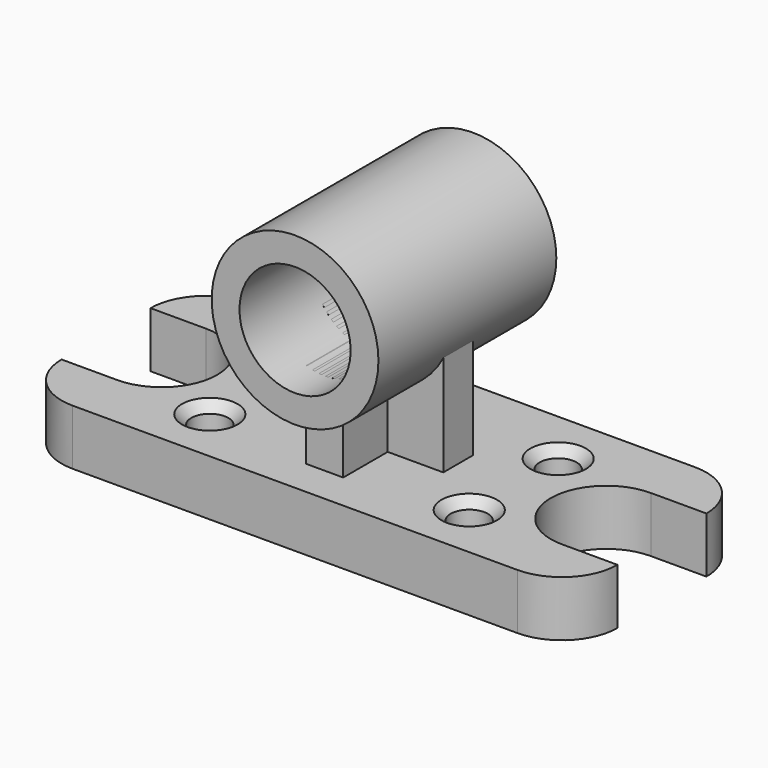
from build123d import *

# Parameters (mm, degrees)
F0_R     = 38.1
F0_R_2   = 25.4
F1_DEPTH = 76.2
F2_SIZE  = 12.7
F5_DEPTH = 152.4
F8_DEPTH = 152.4
F9_D     = 152.4
F9_2_D   = 152.4


with BuildPart() as f1:
    # F0 (on Top) → F1 (new body)
    with BuildSketch(Plane.XY):
        with BuildLine():
            ThreePointArc((0, 76.2), (22.3184632736, 22.3184632736), (76.2, 0))
            Line((76.2, 0), (685.8, 0))
            ThreePointArc((685.8, 0), (739.6815367264, 22.3184632736), (762, 76.2))
            Line((762, 76.2), (685.8, 76.2))
            ThreePointArc((685.8, 76.2), (609.6, 152.4), (685.8, 228.6))
            Line((685.8, 228.6), (762, 228.6))
            ThreePointArc((762, 228.6), (739.6815367264, 282.4815367264), (685.8, 304.8))
            Line((685.8, 304.8), (76.2, 304.8))
            ThreePointArc((76.2, 304.8), (22.3184632736, 282.4815367264), (0, 228.6))
            Line((0, 228.6), (76.2, 228.6))
            ThreePointArc((76.2, 228.6), (152.4, 152.4), (76.2, 76.2))
            Line((76.2, 76.2), (0, 76.2))
        make_face()
        with Locations((203.2, 76.2)):
            Circle(F0_R, mode=Mode.SUBTRACT)
        with Locations((558.8, 76.2)):
            Circle(F0_R, mode=Mode.SUBTRACT)
        with Locations((203.2, 228.6)):
            Circle(F0_R, mode=Mode.SUBTRACT)
        Polygon((279.4, 127), (279.4, 177.8), (355.6, 177.8), (355.6, 254), (406.4, 254), (406.4, 177.8), (482.6, 177.8), (482.6, 127), (406.4, 127), (406.4, 50.8), (355.6, 50.8), (355.6, 127), align=None, mode=Mode.SUBTRACT)
        with Locations((558.8, 228.6)):
            Circle(F0_R, mode=Mode.SUBTRACT)
        Polygon((355.6, 177.8), (279.4, 177.8), (279.4, 127), (355.6, 127), (355.6, 50.8), (406.4, 50.8), (406.4, 127), (482.6, 127), (482.6, 177.8), (406.4, 177.8), (406.4, 254), (355.6, 254), align=None)
        with Locations((203.2, 228.6)):
            Circle(F0_R)
        with Locations((203.2, 228.6)):
            Circle(F0_R_2, mode=Mode.SUBTRACT)
        with Locations((203.2, 76.2)):
            Circle(F0_R)
        with Locations((203.2, 76.2)):
            Circle(F0_R_2, mode=Mode.SUBTRACT)
        with Locations((558.8, 76.2)):
            Circle(F0_R)
        with Locations((558.8, 76.2)):
            Circle(F0_R_2, mode=Mode.SUBTRACT)
        with Locations((558.8, 228.6)):
            Circle(F0_R)
        with Locations((558.8, 228.6)):
            Circle(F0_R_2, mode=Mode.SUBTRACT)
    extrude(amount=-F1_DEPTH)

    # F2
    f2_edges = [f1.edges().sort_by_distance(p)[0] for p in [
        (177.8, 228.6, 0),
        (177.8, 76.2, 0),
        (533.4, 76.2, 0),
        (533.4, 228.6, 0),
    ]]
    chamfer(f2_edges, length=F2_SIZE)


with BuildPart() as f5:
    # F4 (on offset) → F5 (new body, symmetric)
    with BuildSketch(Plane.XZ.offset(-152.4)):
        with BuildLine():
            ThreePointArc((381, 76.2), (461.8223050896, 109.6776949104), (495.3, 190.5))
            ThreePointArc((495.3, 190.5), (300.1776949104, 271.3223050896), (381, 76.2))
        make_face()
    extrude(amount=F5_DEPTH, both=True)

    # F9 (through all)
    with Locations(Plane.XZ):
        with Locations((381, 190.5)):
            Hole(F9_D / 2)


with BuildPart() as f8:
    # F0 (on Top) → F8 (new body, through all)
    with BuildSketch(Plane.XY):
        Polygon((355.6, 177.8), (279.4, 177.8), (279.4, 127), (355.6, 127), (355.6, 50.8), (406.4, 50.8), (406.4, 127), (482.6, 127), (482.6, 177.8), (406.4, 177.8), (406.4, 254), (355.6, 254), align=None)
    extrude(amount=F8_DEPTH)

    # F9#2 (through all)
    with Locations(Plane.XZ):
        with Locations((381, 190.5)):
            Hole(F9_2_D / 2)


solid = Compound([f1.part, f5.part, f8.part])
